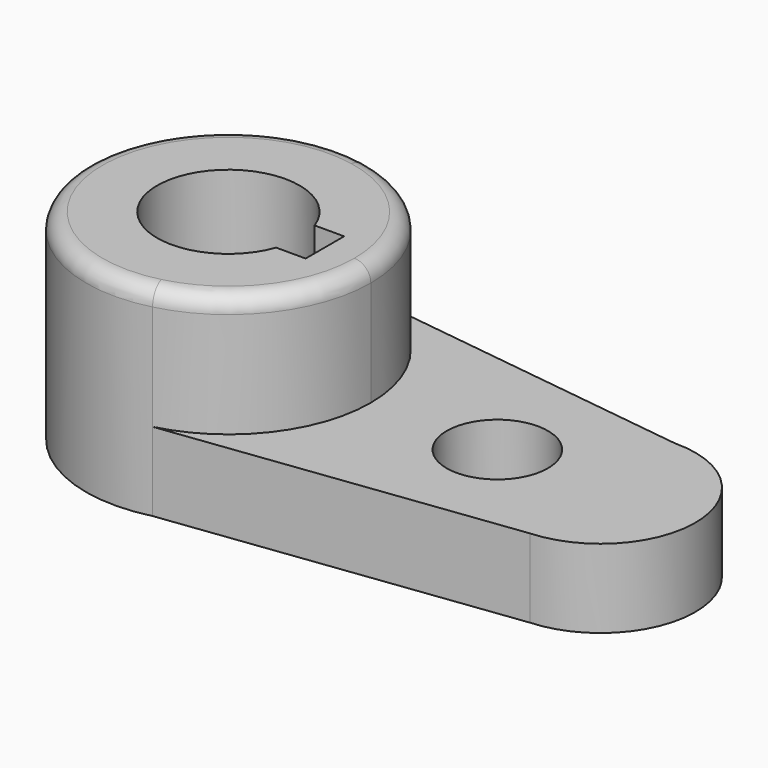
from build123d import *

# Parameters (mm, degrees)
F1_DEPTH = 15.7734
F2_DEPTH = 40.2336
F3_R     = 3.302


with BuildPart() as f1:
    # F0 (on Top) → F1 (new body)
    with BuildSketch(Plane.XY):
        with BuildLine():
            ThreePointArc((-34.39037, 28.049673), (-17.794691, 18.17528), (-11.269403, 0))
            ThreePointArc((-11.269403, 0), (-17.313196, -17.57485), (-32.887976, -27.715316))
            Line((-32.887976, -27.715316), (35.899774, -19.02012))
            ThreePointArc((35.899774, -19.02012), (53.871128, 0.678817), (34.542421, 19.04778))
            Line((34.542421, 19.04778), (-34.39037, 28.049673))
        make_face()
        with BuildLine():
            ThreePointArc((24.290597, 0), (14.130597, -10.16), (3.970597, 0))
            ThreePointArc((3.970597, 0), (14.130597, 10.16), (24.290597, 0))
        make_face(mode=Mode.SUBTRACT)
    extrude(amount=F1_DEPTH)

    # F0 (on Top) → F2 (join)
    with BuildSketch(Plane.XY):
        with BuildLine():
            ThreePointArc((-32.887976, -27.715316), (-17.313196, -17.57485), (-11.269403, 0))
            ThreePointArc((-11.269403, 0), (-17.794691, 18.17528), (-34.39037, 28.049673))
            ThreePointArc((-34.39037, 28.049673), (-68.409038, -0.769575), (-32.887976, -27.715316))
        make_face()
        with BuildLine():
            Line((-20.475368, 4.826), (-20.475368, 0))
            Line((-20.475368, 0), (-20.475368, -4.826))
            Line((-20.475368, -4.826), (-26.396638, -4.826))
            ThreePointArc((-26.396638, -4.826), (-54.131903, 0), (-26.396638, 4.826))
            Line((-26.396638, 4.826), (-20.475368, 4.826))
        make_face(mode=Mode.SUBTRACT)
    extrude(amount=F2_DEPTH)

    # F3
    f3_edges = [f1.edges().sort_by_distance(p)[0] for p in [
        (-46.80083, 27.715316, 40.2336),
    ]]
    fillet(f3_edges, radius=F3_R)


solid = f1.part
